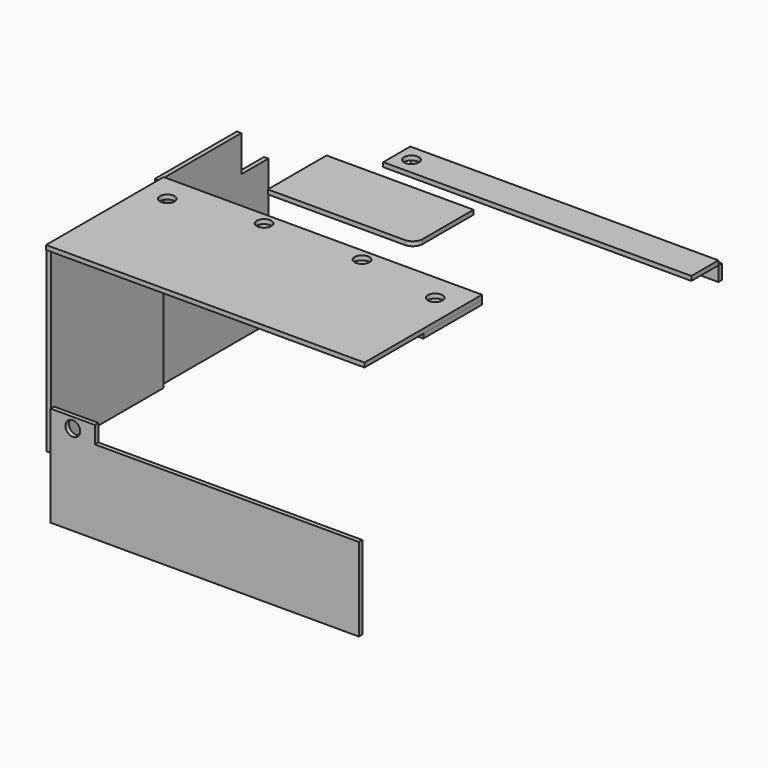
from build123d import *

# Parameters (mm, degrees)
F0_W      = 1300
F0_H      = 600
F0_R      = 30
F1_DEPTH  = 18
F2_W      = 575
F2_H      = 740
F3_DEPTH  = 18
F5_DEPTH  = 18
F7_DEPTH  = 18
F8_R      = 30
F9_DEPTH  = 18
F10_W     = 876
F10_H     = 300
F11_DEPTH = 18
F12_W     = 1258
F12_H     = 138
F12_R     = 30
F13_DEPTH = 18
F14_W     = 1258
F14_H     = 60
F15_DEPTH = 18


with BuildPart() as f1:
    # F0 (on Top) → F1 (new body)
    with BuildSketch(Plane.XY):
        Rectangle(F0_W, F0_H)
        with Locations((-547, 190)):
            Circle(F0_R, mode=Mode.SUBTRACT)
        with Locations((-200, 250)):
            Circle(F0_R, mode=Mode.SUBTRACT)
        with Locations((200, 250)):
            Circle(F0_R, mode=Mode.SUBTRACT)
        with Locations((547, 190)):
            Circle(F0_R, mode=Mode.SUBTRACT)
    extrude(amount=F1_DEPTH)


with BuildPart() as f3:
    # F2 (on face) → F3 (new body)
    with BuildSketch(Plane(origin=(-650, 0, 0), x_dir=(0, -1, 0), z_dir=(-1, 0, 0))):
        with Locations((-12.5, -370)):
            Rectangle(F2_W, F2_H)
    extrude(amount=F3_DEPTH)


with BuildPart() as f5:
    # F4 (on face) → F5 (new body)
    with BuildSketch(Plane(origin=(-668, 0, 0), x_dir=(0, -1, 0), z_dir=(-1, 0, 0))):
        Polygon((-857, -740), (-300, -740), (-300, 0), (-719, 0), (-719, -148), (-857, -148), align=None)
    extrude(amount=F5_DEPTH)


with BuildPart() as f7:
    # F6 (on face) → F7 (new body)
    with BuildSketch(Plane(origin=(0, 0, 0), x_dir=(1, 0, 0), z_dir=(0, 0, -1))):
        with BuildLine():
            Line((200.73227, -468.097812), (-359.26773, -468.097812))
            Line((-359.26773, -468.097812), (-359.26773, -768.097812))
            Line((-359.26773, -768.097812), (240.73227, -768.097812))
            Line((240.73227, -768.097812), (240.73227, -508.097812))
            ThreePointArc((240.73227, -508.097812), (229.016541, -479.813541), (200.73227, -468.097812))
        make_face()
    extrude(amount=F7_DEPTH)


with BuildPart() as f9:
    # F8 (on face) → F9 (new body)
    with BuildSketch(Plane.XZ.offset(300)):
        Polygon((641.384593, -622.400284), (-436.615407, -622.400284), (-436.615407, -552.400284), (-616.615407, -552.400284), (-616.615407, -962.400284), (641.384593, -962.400284), align=None)
        with Locations((-526.615407, -594.400284)):
            Circle(F8_R, mode=Mode.SUBTRACT)
    extrude(amount=F9_DEPTH)


with BuildPart() as f11:
    # F10 (on face) → F11 (new body)
    with BuildSketch(Plane(origin=(0, 0, 0), x_dir=(1, 0, 0), z_dir=(0, 0, -1))):
        with Locations((212, -150)):
            Rectangle(F10_W, F10_H)
    extrude(amount=F11_DEPTH)


with BuildPart() as f13:
    # F12 (on face) → F13 (new body)
    with BuildSketch(Plane(origin=(0, 0, -18), x_dir=(1, 0, 0), z_dir=(0, 0, -1))):
        with Locations((418.031032, -940.872043)):
            Rectangle(F12_W, F12_H)
        with Locations((-150.968968, -940.872043)):
            Circle(F12_R, mode=Mode.SUBTRACT)
    extrude(amount=F13_DEPTH)


with BuildPart() as f15:
    # F14 (on face) → F15 (new body)
    with BuildSketch(Plane(origin=(0, 1009.872043, 0), x_dir=(-1, 0, 0), z_dir=(0, 1, 0))):
        with Locations((-418.031032, -66)):
            Rectangle(F14_W, F14_H)
    extrude(amount=F15_DEPTH)


solid = Compound([f1.part, f3.part, f5.part, f7.part, f9.part, f11.part, f13.part, f15.part])
